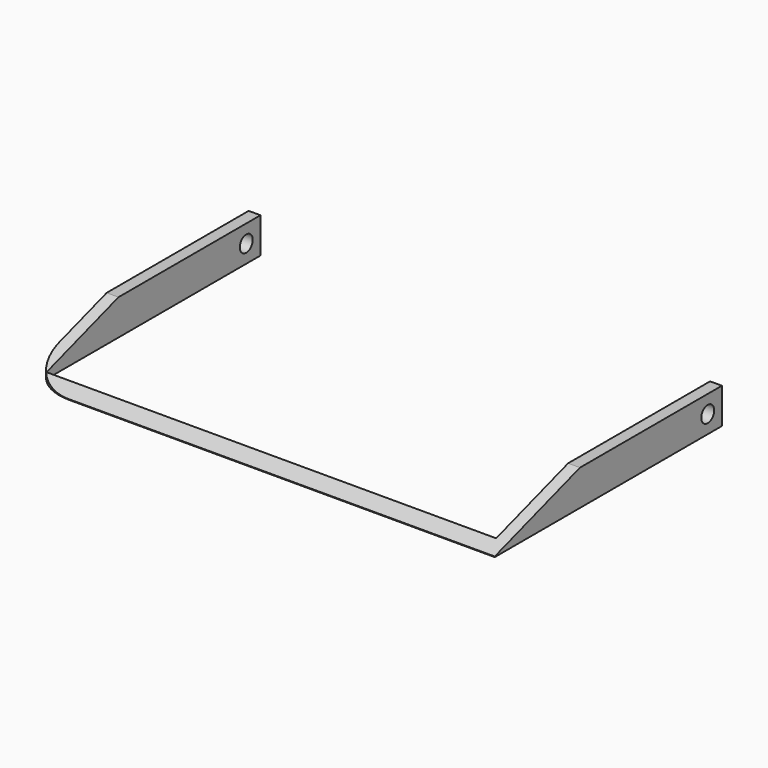
from build123d import *

# Parameters (mm, degrees)
F0_W     = 200
F0_H     = 120
F1_DEPTH = 15
F2_R     = 3.4108766744
F3_DEPTH = 200.001
F4_SIZE2 = 14.75
F4_SIZE  = 45
F5_R     = 20
F6_W     = 190
F6_H     = 113
F7_DEPTH = 15.001


with BuildPart() as f1:
    # F0 (on Top) → F1 (new body)
    with BuildSketch(Plane.XY):
        Rectangle(F0_W, F0_H)
    extrude(amount=F1_DEPTH)

    # F2 (on face) → F3 (cut, through all)
    with BuildSketch(Plane.YZ.offset(100)):
        with Locations((52.5, 7.5)):
            Circle(F2_R)
    extrude(amount=-F3_DEPTH, mode=Mode.SUBTRACT)

    # F4
    f4_edges = [f1.edges().sort_by_distance(p)[0] for p in [
        (0, -60, 15),
    ]]
    f4_side = f1.faces().sort_by_distance((0, 0, 15))[0]
    chamfer(f4_edges, length=F4_SIZE, length2=F4_SIZE2, reference=f4_side)

    # F5
    f5_edges = [f1.edges().sort_by_distance(p)[0] for p in [
        (-100, -60, 0.125),
    ]]
    fillet(f5_edges, radius=F5_R)

    # F6 (on face) → F7 (cut, through all)
    with BuildSketch(Plane.XY.offset(15)):
        with Locations((0, 3.5)):
            Rectangle(F6_W, F6_H)
    extrude(amount=-F7_DEPTH, mode=Mode.SUBTRACT)


solid = f1.part
